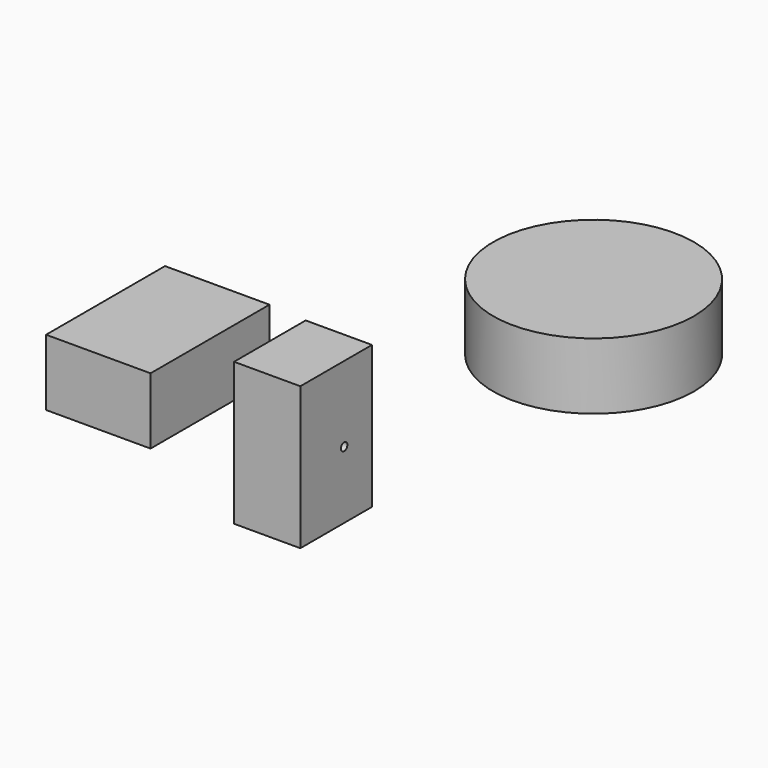
from build123d import *

# Parameters (mm, degrees)
F0_W     = 34.312252
F0_H     = 54.650113
F0_R     = 1.542217
F1_DEPTH = 25.4
F2_W     = 40.033057
F2_H     = 56.956679
F3_DEPTH = 25.4
F5_R     = 38.472751
F6_DEPTH = 25.4


with BuildPart() as f1:
    # F0 (on Right) → F1 (new body)
    with BuildSketch(Plane.YZ):
        with Locations((-3.838928, 1.594358)):
            Rectangle(F0_W, F0_H)
        Circle(F0_R, mode=Mode.SUBTRACT)
    extrude(amount=F1_DEPTH)


with BuildPart() as f3:
    # F2 (on Top) → F3 (new body)
    with BuildSketch(Plane.XY):
        with Locations((-39.076581, -8.680982)):
            Rectangle(F2_W, F2_H)
    extrude(amount=F3_DEPTH)


with BuildPart() as f6:
    # F5 (on face) → F6 (new body)
    with BuildSketch(Plane.XY):
        with Locations((46.315636, 93.322419)):
            Circle(F5_R)
    extrude(amount=F6_DEPTH)


solid = Compound([f1.part, f3.part, f6.part])
